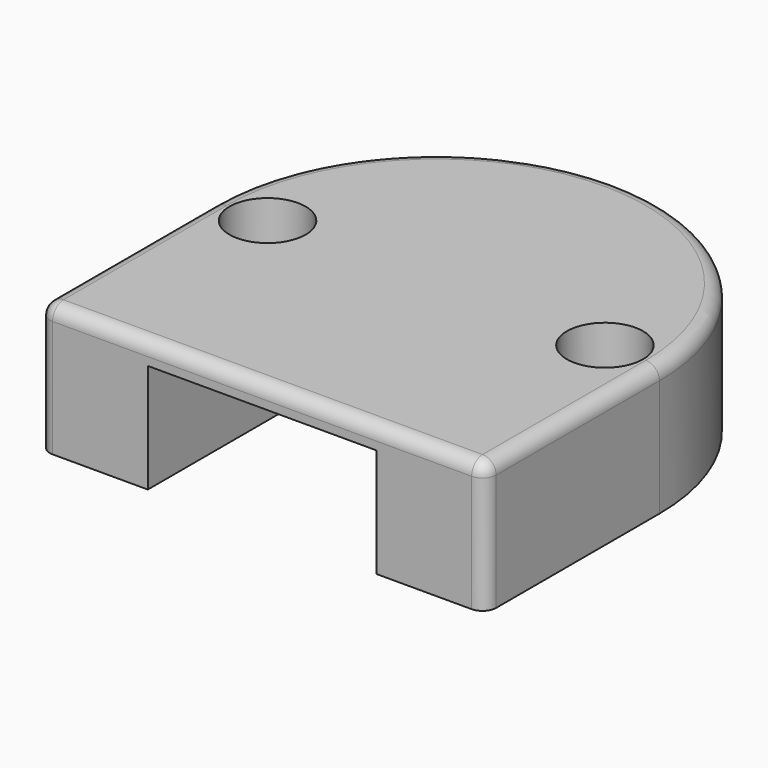
from build123d import *

# Parameters (mm, degrees)
SKETCH_R     = 2
PAD_DEPTH    = 4
CHAMFER_SIZE = 1.5
SKETCH001_R  = 3.5
PAD001_DEPTH = 6
SKETCH002_R  = 3.5
PAD002_DEPTH = 2
FILLET_R     = 1.25


with BuildPart() as part:
    # Sketch → Pad (new body)
    with BuildSketch(Plane.XY):
        with BuildLine():
            Line((-10.5, 0), (-10.5, -20))
            Line((-10.5, -20), (-20.5, -20))
            Line((-20.5, -20), (-20.5, 0))
            ThreePointArc((20.5, 0), (0, 20.5), (-20.5, 0))
            Line((20.5, 0), (20.5, -20))
            Line((20.5, -20), (10.5, -20))
            Line((10.5, -20), (10.5, 0))
            ThreePointArc((10.5, 0), (0, 10.5), (-10.5, 0))
        make_face()
        with Locations((-15.5, 0)):
            Circle(SKETCH_R, mode=Mode.SUBTRACT)
        with Locations((15.5, 0)):
            Circle(SKETCH_R, mode=Mode.SUBTRACT)
    extrude(amount=PAD_DEPTH)

    # Chamfer
    chamfer_edges = [part.edges().sort_by_distance(p)[0] for p in [
        (13.5, 0, 4),
        (-17.5, 0, 4),
    ]]
    chamfer(chamfer_edges, length=CHAMFER_SIZE)

    # Sketch001 (on Face4 of Chamfer) → Pad001 (join)
    with BuildSketch(Plane.XY.offset(4)):
        with BuildLine():
            Line((-10.5, -20), (-20.5, -20))
            Line((-20.5, -20), (-20.5, 0))
            ThreePointArc((20.5, 0), (0, 20.5), (-20.5, 0))
            Line((20.5, -20), (20.5, 0))
            Line((10.5, -20), (20.5, -20))
            Line((10.5, 0), (10.5, -20))
            ThreePointArc((10.5, 0), (0, 10.5), (-10.5, 0))
            Line((-10.5, -20), (-10.5, 0))
        make_face()
        with Locations((-15.5, 0)):
            Circle(SKETCH001_R, mode=Mode.SUBTRACT)
        with Locations((15.5, 0)):
            Circle(SKETCH001_R, mode=Mode.SUBTRACT)
    extrude(amount=PAD001_DEPTH)

    # Sketch002 (on Face14 of Pad001) → Pad002 (join)
    with BuildSketch(Plane.XY.offset(10)):
        with BuildLine():
            Line((-20.5, -20), (20.5, -20))
            Line((20.5, -20), (20.5, 0))
            ThreePointArc((20.5, 0), (0, 20.5), (-20.5, 0))
            Line((-20.5, 0), (-20.5, -20))
        make_face()
        with Locations((-15.5, 0)):
            Circle(SKETCH002_R, mode=Mode.SUBTRACT)
        with Locations((15.5, 0)):
            Circle(SKETCH002_R, mode=Mode.SUBTRACT)
    extrude(amount=PAD002_DEPTH)

    # Fillet
    fillet_edges = [part.edges().sort_by_distance(p)[0] for p in [
        (-20.5, -20, 2),
        (-20.5, -20, 7),
        (-20.5, -20, 11),
        (-20.5, -10, 12),
        (0, 20.5, 12),
        (0, -20, 12),
        (20.5, -10, 12),
        (20.5, -20, 11),
        (20.5, -20, 7),
        (20.5, -20, 2),
    ]]
    fillet(fillet_edges, radius=FILLET_R)


solid = part.part
